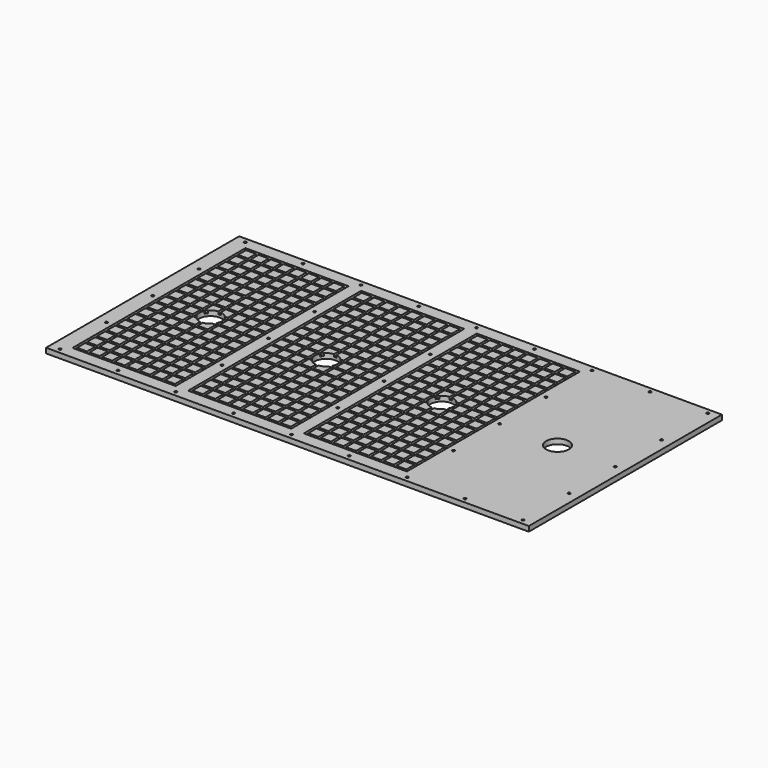
from build123d import *

# Parameters (mm, degrees)
F0_W     = 2438.4
F0_H     = 1219.2
F1_DEPTH = 25.4
F2_R     = 6.35
F2_R_2   = 57.15
F3_DEPTH = 25.4
F4_W     = 520.7
F4_H     = 1092.2
F4_W_2   = 50.8
F4_H_2   = 50.8
F5_DEPTH = 12.7


with BuildPart() as f1:
    # F0 (on Top) → F1 (new body)
    with BuildSketch(Plane.XY):
        with Locations((1219.2, 609.6)):
            Rectangle(F0_W, F0_H)
    extrude(amount=F1_DEPTH)

    # F2 (on face) → F3 (cut, through all)
    with BuildSketch(Plane.XY.offset(25.4)):
        with Locations((50.8, 1193.8)):
            Circle(F2_R)
        with Locations((635, 1193.8)):
            Circle(F2_R)
        with Locations((342.9, 1193.8)):
            Circle(F2_R)
        with Locations((927.1, 1193.8)):
            Circle(F2_R)
        with Locations((1219.2, 1193.8)):
            Circle(F2_R)
        with Locations((1511.3, 1193.8)):
            Circle(F2_R)
        with Locations((1803.4, 1193.8)):
            Circle(F2_R)
        with Locations((2095.5, 1193.8)):
            Circle(F2_R)
        with Locations((2387.6, 1193.8)):
            Circle(F2_R)
        with Locations((1803.4, 901.7)):
            Circle(F2_R)
        with Locations((1219.2, 901.7)):
            Circle(F2_R)
        with Locations((635, 901.7)):
            Circle(F2_R)
        with Locations((2387.6, 901.7)):
            Circle(F2_R)
        with Locations((342.9, 609.6)):
            Circle(F2_R_2)
        with Locations((927.1, 609.6)):
            Circle(F2_R_2)
        with Locations((1511.3, 609.6)):
            Circle(F2_R_2)
        with Locations((2095.5, 609.6)):
            Circle(F2_R_2)
        with Locations((50.8, 901.7)):
            Circle(F2_R)
        with Locations((50.8, 317.5)):
            Circle(F2_R)
        with Locations((50.8, 25.4)):
            Circle(F2_R)
        with Locations((342.9, 25.4)):
            Circle(F2_R)
        with Locations((635, 317.5)):
            Circle(F2_R)
        with Locations((635, 25.4)):
            Circle(F2_R)
        with Locations((927.1, 25.4)):
            Circle(F2_R)
        with Locations((1219.2, 25.4)):
            Circle(F2_R)
        with Locations((1219.2, 317.5)):
            Circle(F2_R)
        with Locations((1511.3, 25.4)):
            Circle(F2_R)
        with Locations((1803.4, 25.4)):
            Circle(F2_R)
        with Locations((1803.4, 317.5)):
            Circle(F2_R)
        with Locations((2095.5, 25.4)):
            Circle(F2_R)
        with Locations((2387.6, 25.4)):
            Circle(F2_R)
        with Locations((2387.6, 317.5)):
            Circle(F2_R)
        with Locations((50.8, 609.6)):
            Circle(F2_R)
        with Locations((635, 609.6)):
            Circle(F2_R)
        with Locations((1219.2, 609.6)):
            Circle(F2_R)
        with Locations((1803.4, 609.6)):
            Circle(F2_R)
        with Locations((2387.6, 609.6)):
            Circle(F2_R)
    extrude(amount=-F3_DEPTH, mode=Mode.SUBTRACT)

    # F4 (on face) → F5 (cut)
    with BuildSketch(Plane.XY.offset(25.4)):
        with Locations((342.9, 609.6)):
            Rectangle(F4_W, F4_H)
        with Locations((120.65, 101.6)):
            Rectangle(F4_W_2, F4_H_2, mode=Mode.SUBTRACT)
        with Locations((184.147673, 101.6)):
            Rectangle(F4_W_2, F4_H_2, mode=Mode.SUBTRACT)
        with Locations((247.645347, 101.6)):
            Rectangle(F4_W_2, F4_H_2, mode=Mode.SUBTRACT)
        with Locations((120.65, 165.1)):
            Rectangle(F4_W_2, F4_H_2, mode=Mode.SUBTRACT)
        with Locations((184.147673, 165.1)):
            Rectangle(F4_W_2, F4_H_2, mode=Mode.SUBTRACT)
        with Locations((247.645347, 165.1)):
            Rectangle(F4_W_2, F4_H_2, mode=Mode.SUBTRACT)
        with Locations((311.14302, 101.6)):
            Rectangle(F4_W_2, F4_H_2, mode=Mode.SUBTRACT)
        with Locations((374.640694, 101.6)):
            Rectangle(F4_W_2, F4_H_2, mode=Mode.SUBTRACT)
        with Locations((438.138367, 101.6)):
            Rectangle(F4_W_2, F4_H_2, mode=Mode.SUBTRACT)
        with Locations((501.636041, 101.6)):
            Rectangle(F4_W_2, F4_H_2, mode=Mode.SUBTRACT)
        with Locations((311.14302, 165.1)):
            Rectangle(F4_W_2, F4_H_2, mode=Mode.SUBTRACT)
        with Locations((374.640694, 165.1)):
            Rectangle(F4_W_2, F4_H_2, mode=Mode.SUBTRACT)
        with Locations((438.138367, 165.1)):
            Rectangle(F4_W_2, F4_H_2, mode=Mode.SUBTRACT)
        with Locations((501.636041, 165.1)):
            Rectangle(F4_W_2, F4_H_2, mode=Mode.SUBTRACT)
        with Locations((120.65, 228.6)):
            Rectangle(F4_W_2, F4_H_2, mode=Mode.SUBTRACT)
        with Locations((184.147673, 228.6)):
            Rectangle(F4_W_2, F4_H_2, mode=Mode.SUBTRACT)
        with Locations((247.645347, 228.6)):
            Rectangle(F4_W_2, F4_H_2, mode=Mode.SUBTRACT)
        with Locations((120.65, 292.1)):
            Rectangle(F4_W_2, F4_H_2, mode=Mode.SUBTRACT)
        with Locations((184.147673, 292.1)):
            Rectangle(F4_W_2, F4_H_2, mode=Mode.SUBTRACT)
        with Locations((247.645347, 292.1)):
            Rectangle(F4_W_2, F4_H_2, mode=Mode.SUBTRACT)
        with Locations((311.14302, 228.6)):
            Rectangle(F4_W_2, F4_H_2, mode=Mode.SUBTRACT)
        with Locations((374.640694, 228.6)):
            Rectangle(F4_W_2, F4_H_2, mode=Mode.SUBTRACT)
        with Locations((438.138367, 228.6)):
            Rectangle(F4_W_2, F4_H_2, mode=Mode.SUBTRACT)
        with Locations((501.636041, 228.6)):
            Rectangle(F4_W_2, F4_H_2, mode=Mode.SUBTRACT)
        with Locations((311.14302, 292.1)):
            Rectangle(F4_W_2, F4_H_2, mode=Mode.SUBTRACT)
        with Locations((374.640694, 292.1)):
            Rectangle(F4_W_2, F4_H_2, mode=Mode.SUBTRACT)
        with Locations((438.138367, 292.1)):
            Rectangle(F4_W_2, F4_H_2, mode=Mode.SUBTRACT)
        with Locations((501.636041, 292.1)):
            Rectangle(F4_W_2, F4_H_2, mode=Mode.SUBTRACT)
        with Locations((565.133714, 101.6)):
            Rectangle(F4_W_2, F4_H_2, mode=Mode.SUBTRACT)
        with Locations((565.133714, 165.1)):
            Rectangle(F4_W_2, F4_H_2, mode=Mode.SUBTRACT)
        with Locations((565.133714, 228.6)):
            Rectangle(F4_W_2, F4_H_2, mode=Mode.SUBTRACT)
        with Locations((565.133714, 292.1)):
            Rectangle(F4_W_2, F4_H_2, mode=Mode.SUBTRACT)
        with Locations((120.65, 355.6)):
            Rectangle(F4_W_2, F4_H_2, mode=Mode.SUBTRACT)
        with Locations((184.147673, 355.6)):
            Rectangle(F4_W_2, F4_H_2, mode=Mode.SUBTRACT)
        with Locations((247.645347, 355.6)):
            Rectangle(F4_W_2, F4_H_2, mode=Mode.SUBTRACT)
        with Locations((120.65, 419.1)):
            Rectangle(F4_W_2, F4_H_2, mode=Mode.SUBTRACT)
        with Locations((184.147673, 419.1)):
            Rectangle(F4_W_2, F4_H_2, mode=Mode.SUBTRACT)
        with Locations((247.645347, 419.1)):
            Rectangle(F4_W_2, F4_H_2, mode=Mode.SUBTRACT)
        with Locations((311.14302, 355.6)):
            Rectangle(F4_W_2, F4_H_2, mode=Mode.SUBTRACT)
        with Locations((374.640694, 355.6)):
            Rectangle(F4_W_2, F4_H_2, mode=Mode.SUBTRACT)
        with Locations((438.138367, 355.6)):
            Rectangle(F4_W_2, F4_H_2, mode=Mode.SUBTRACT)
        with Locations((501.636041, 355.6)):
            Rectangle(F4_W_2, F4_H_2, mode=Mode.SUBTRACT)
        with Locations((311.14302, 419.1)):
            Rectangle(F4_W_2, F4_H_2, mode=Mode.SUBTRACT)
        with Locations((374.640694, 419.1)):
            Rectangle(F4_W_2, F4_H_2, mode=Mode.SUBTRACT)
        with Locations((438.138367, 419.1)):
            Rectangle(F4_W_2, F4_H_2, mode=Mode.SUBTRACT)
        with Locations((501.636041, 419.1)):
            Rectangle(F4_W_2, F4_H_2, mode=Mode.SUBTRACT)
        with Locations((120.65, 482.6)):
            Rectangle(F4_W_2, F4_H_2, mode=Mode.SUBTRACT)
        with Locations((184.147673, 482.6)):
            Rectangle(F4_W_2, F4_H_2, mode=Mode.SUBTRACT)
        with Locations((247.645347, 482.6)):
            Rectangle(F4_W_2, F4_H_2, mode=Mode.SUBTRACT)
        with Locations((120.65, 546.1)):
            Rectangle(F4_W_2, F4_H_2, mode=Mode.SUBTRACT)
        with Locations((184.147673, 546.1)):
            Rectangle(F4_W_2, F4_H_2, mode=Mode.SUBTRACT)
        with Locations((247.645347, 546.1)):
            Rectangle(F4_W_2, F4_H_2, mode=Mode.SUBTRACT)
        with Locations((311.14302, 482.6)):
            Rectangle(F4_W_2, F4_H_2, mode=Mode.SUBTRACT)
        with Locations((374.640694, 482.6)):
            Rectangle(F4_W_2, F4_H_2, mode=Mode.SUBTRACT)
        with Locations((438.138367, 482.6)):
            Rectangle(F4_W_2, F4_H_2, mode=Mode.SUBTRACT)
        with Locations((501.636041, 482.6)):
            Rectangle(F4_W_2, F4_H_2, mode=Mode.SUBTRACT)
        with Locations((311.14302, 546.1)):
            Rectangle(F4_W_2, F4_H_2, mode=Mode.SUBTRACT)
        with Locations((374.640694, 546.1)):
            Rectangle(F4_W_2, F4_H_2, mode=Mode.SUBTRACT)
        with Locations((438.138367, 546.1)):
            Rectangle(F4_W_2, F4_H_2, mode=Mode.SUBTRACT)
        with Locations((501.636041, 546.1)):
            Rectangle(F4_W_2, F4_H_2, mode=Mode.SUBTRACT)
        with Locations((565.133714, 355.6)):
            Rectangle(F4_W_2, F4_H_2, mode=Mode.SUBTRACT)
        with Locations((565.133714, 419.1)):
            Rectangle(F4_W_2, F4_H_2, mode=Mode.SUBTRACT)
        with Locations((565.133714, 482.6)):
            Rectangle(F4_W_2, F4_H_2, mode=Mode.SUBTRACT)
        with Locations((565.133714, 546.1)):
            Rectangle(F4_W_2, F4_H_2, mode=Mode.SUBTRACT)
        with Locations((120.65, 609.6)):
            Rectangle(F4_W_2, F4_H_2, mode=Mode.SUBTRACT)
        with Locations((184.147673, 609.6)):
            Rectangle(F4_W_2, F4_H_2, mode=Mode.SUBTRACT)
        with Locations((120.65, 673.1)):
            Rectangle(F4_W_2, F4_H_2, mode=Mode.SUBTRACT)
        with Locations((184.147673, 673.1)):
            Rectangle(F4_W_2, F4_H_2, mode=Mode.SUBTRACT)
        with Locations((247.645347, 609.6)):
            Rectangle(F4_W_2, F4_H_2, mode=Mode.SUBTRACT)
        with Locations((247.645347, 673.1)):
            Rectangle(F4_W_2, F4_H_2, mode=Mode.SUBTRACT)
        with Locations((120.65, 736.6)):
            Rectangle(F4_W_2, F4_H_2, mode=Mode.SUBTRACT)
        with Locations((184.147673, 736.6)):
            Rectangle(F4_W_2, F4_H_2, mode=Mode.SUBTRACT)
        with Locations((247.645347, 736.6)):
            Rectangle(F4_W_2, F4_H_2, mode=Mode.SUBTRACT)
        with Locations((311.14302, 609.6)):
            Rectangle(F4_W_2, F4_H_2, mode=Mode.SUBTRACT)
        with Locations((374.640694, 609.6)):
            Rectangle(F4_W_2, F4_H_2, mode=Mode.SUBTRACT)
        with Locations((311.14302, 673.1)):
            Rectangle(F4_W_2, F4_H_2, mode=Mode.SUBTRACT)
        with Locations((374.640694, 673.1)):
            Rectangle(F4_W_2, F4_H_2, mode=Mode.SUBTRACT)
        with Locations((438.138367, 609.6)):
            Rectangle(F4_W_2, F4_H_2, mode=Mode.SUBTRACT)
        with Locations((501.636041, 609.6)):
            Rectangle(F4_W_2, F4_H_2, mode=Mode.SUBTRACT)
        with Locations((438.138367, 673.1)):
            Rectangle(F4_W_2, F4_H_2, mode=Mode.SUBTRACT)
        with Locations((501.636041, 673.1)):
            Rectangle(F4_W_2, F4_H_2, mode=Mode.SUBTRACT)
        with Locations((311.14302, 736.6)):
            Rectangle(F4_W_2, F4_H_2, mode=Mode.SUBTRACT)
        with Locations((374.640694, 736.6)):
            Rectangle(F4_W_2, F4_H_2, mode=Mode.SUBTRACT)
        with Locations((438.138367, 736.6)):
            Rectangle(F4_W_2, F4_H_2, mode=Mode.SUBTRACT)
        with Locations((501.636041, 736.6)):
            Rectangle(F4_W_2, F4_H_2, mode=Mode.SUBTRACT)
        with Locations((120.65, 800.1)):
            Rectangle(F4_W_2, F4_H_2, mode=Mode.SUBTRACT)
        with Locations((184.147673, 800.1)):
            Rectangle(F4_W_2, F4_H_2, mode=Mode.SUBTRACT)
        with Locations((247.645347, 800.1)):
            Rectangle(F4_W_2, F4_H_2, mode=Mode.SUBTRACT)
        with Locations((120.65, 863.6)):
            Rectangle(F4_W_2, F4_H_2, mode=Mode.SUBTRACT)
        with Locations((184.147673, 863.6)):
            Rectangle(F4_W_2, F4_H_2, mode=Mode.SUBTRACT)
        with Locations((247.645347, 863.6)):
            Rectangle(F4_W_2, F4_H_2, mode=Mode.SUBTRACT)
        with Locations((311.14302, 800.1)):
            Rectangle(F4_W_2, F4_H_2, mode=Mode.SUBTRACT)
        with Locations((374.640694, 800.1)):
            Rectangle(F4_W_2, F4_H_2, mode=Mode.SUBTRACT)
        with Locations((438.138367, 800.1)):
            Rectangle(F4_W_2, F4_H_2, mode=Mode.SUBTRACT)
        with Locations((501.636041, 800.1)):
            Rectangle(F4_W_2, F4_H_2, mode=Mode.SUBTRACT)
        with Locations((311.14302, 863.6)):
            Rectangle(F4_W_2, F4_H_2, mode=Mode.SUBTRACT)
        with Locations((374.640694, 863.6)):
            Rectangle(F4_W_2, F4_H_2, mode=Mode.SUBTRACT)
        with Locations((438.138367, 863.6)):
            Rectangle(F4_W_2, F4_H_2, mode=Mode.SUBTRACT)
        with Locations((501.636041, 863.6)):
            Rectangle(F4_W_2, F4_H_2, mode=Mode.SUBTRACT)
        with Locations((565.133714, 609.6)):
            Rectangle(F4_W_2, F4_H_2, mode=Mode.SUBTRACT)
        with Locations((565.133714, 673.1)):
            Rectangle(F4_W_2, F4_H_2, mode=Mode.SUBTRACT)
        with Locations((565.133714, 736.6)):
            Rectangle(F4_W_2, F4_H_2, mode=Mode.SUBTRACT)
        with Locations((565.133714, 800.1)):
            Rectangle(F4_W_2, F4_H_2, mode=Mode.SUBTRACT)
        with Locations((565.133714, 863.6)):
            Rectangle(F4_W_2, F4_H_2, mode=Mode.SUBTRACT)
        with Locations((120.65, 927.1)):
            Rectangle(F4_W_2, F4_H_2, mode=Mode.SUBTRACT)
        with Locations((184.147673, 927.1)):
            Rectangle(F4_W_2, F4_H_2, mode=Mode.SUBTRACT)
        with Locations((247.645347, 927.1)):
            Rectangle(F4_W_2, F4_H_2, mode=Mode.SUBTRACT)
        with Locations((120.65, 990.6)):
            Rectangle(F4_W_2, F4_H_2, mode=Mode.SUBTRACT)
        with Locations((184.147673, 990.6)):
            Rectangle(F4_W_2, F4_H_2, mode=Mode.SUBTRACT)
        with Locations((247.645347, 990.6)):
            Rectangle(F4_W_2, F4_H_2, mode=Mode.SUBTRACT)
        with Locations((311.14302, 927.1)):
            Rectangle(F4_W_2, F4_H_2, mode=Mode.SUBTRACT)
        with Locations((374.640694, 927.1)):
            Rectangle(F4_W_2, F4_H_2, mode=Mode.SUBTRACT)
        with Locations((438.138367, 927.1)):
            Rectangle(F4_W_2, F4_H_2, mode=Mode.SUBTRACT)
        with Locations((501.636041, 927.1)):
            Rectangle(F4_W_2, F4_H_2, mode=Mode.SUBTRACT)
        with Locations((311.14302, 990.6)):
            Rectangle(F4_W_2, F4_H_2, mode=Mode.SUBTRACT)
        with Locations((374.640694, 990.6)):
            Rectangle(F4_W_2, F4_H_2, mode=Mode.SUBTRACT)
        with Locations((438.138367, 990.6)):
            Rectangle(F4_W_2, F4_H_2, mode=Mode.SUBTRACT)
        with Locations((501.636041, 990.6)):
            Rectangle(F4_W_2, F4_H_2, mode=Mode.SUBTRACT)
        with Locations((120.65, 1054.1)):
            Rectangle(F4_W_2, F4_H_2, mode=Mode.SUBTRACT)
        with Locations((184.147673, 1054.1)):
            Rectangle(F4_W_2, F4_H_2, mode=Mode.SUBTRACT)
        with Locations((247.645347, 1054.1)):
            Rectangle(F4_W_2, F4_H_2, mode=Mode.SUBTRACT)
        with Locations((120.65, 1117.6)):
            Rectangle(F4_W_2, F4_H_2, mode=Mode.SUBTRACT)
        with Locations((184.147673, 1117.6)):
            Rectangle(F4_W_2, F4_H_2, mode=Mode.SUBTRACT)
        with Locations((247.645347, 1117.6)):
            Rectangle(F4_W_2, F4_H_2, mode=Mode.SUBTRACT)
        with Locations((311.14302, 1054.1)):
            Rectangle(F4_W_2, F4_H_2, mode=Mode.SUBTRACT)
        with Locations((374.640694, 1054.1)):
            Rectangle(F4_W_2, F4_H_2, mode=Mode.SUBTRACT)
        with Locations((438.138367, 1054.1)):
            Rectangle(F4_W_2, F4_H_2, mode=Mode.SUBTRACT)
        with Locations((501.636041, 1054.1)):
            Rectangle(F4_W_2, F4_H_2, mode=Mode.SUBTRACT)
        with Locations((311.14302, 1117.6)):
            Rectangle(F4_W_2, F4_H_2, mode=Mode.SUBTRACT)
        with Locations((374.640694, 1117.6)):
            Rectangle(F4_W_2, F4_H_2, mode=Mode.SUBTRACT)
        with Locations((438.138367, 1117.6)):
            Rectangle(F4_W_2, F4_H_2, mode=Mode.SUBTRACT)
        with Locations((501.636041, 1117.6)):
            Rectangle(F4_W_2, F4_H_2, mode=Mode.SUBTRACT)
        with Locations((565.133714, 927.1)):
            Rectangle(F4_W_2, F4_H_2, mode=Mode.SUBTRACT)
        with Locations((565.133714, 990.6)):
            Rectangle(F4_W_2, F4_H_2, mode=Mode.SUBTRACT)
        with Locations((565.133714, 1054.1)):
            Rectangle(F4_W_2, F4_H_2, mode=Mode.SUBTRACT)
        with Locations((565.133714, 1117.6)):
            Rectangle(F4_W_2, F4_H_2, mode=Mode.SUBTRACT)
        with Locations((927.1, 609.6)):
            Rectangle(F4_W, F4_H)
        with Locations((704.85, 101.6)):
            Rectangle(F4_W_2, F4_H_2, mode=Mode.SUBTRACT)
        with Locations((704.85, 165.1)):
            Rectangle(F4_W_2, F4_H_2, mode=Mode.SUBTRACT)
        with Locations((768.347673, 101.6)):
            Rectangle(F4_W_2, F4_H_2, mode=Mode.SUBTRACT)
        with Locations((831.845347, 101.6)):
            Rectangle(F4_W_2, F4_H_2, mode=Mode.SUBTRACT)
        with Locations((895.34302, 101.6)):
            Rectangle(F4_W_2, F4_H_2, mode=Mode.SUBTRACT)
        with Locations((768.347673, 165.1)):
            Rectangle(F4_W_2, F4_H_2, mode=Mode.SUBTRACT)
        with Locations((831.845347, 165.1)):
            Rectangle(F4_W_2, F4_H_2, mode=Mode.SUBTRACT)
        with Locations((895.34302, 165.1)):
            Rectangle(F4_W_2, F4_H_2, mode=Mode.SUBTRACT)
        with Locations((704.85, 228.6)):
            Rectangle(F4_W_2, F4_H_2, mode=Mode.SUBTRACT)
        with Locations((704.85, 292.1)):
            Rectangle(F4_W_2, F4_H_2, mode=Mode.SUBTRACT)
        with Locations((768.347673, 228.6)):
            Rectangle(F4_W_2, F4_H_2, mode=Mode.SUBTRACT)
        with Locations((831.845347, 228.6)):
            Rectangle(F4_W_2, F4_H_2, mode=Mode.SUBTRACT)
        with Locations((895.34302, 228.6)):
            Rectangle(F4_W_2, F4_H_2, mode=Mode.SUBTRACT)
        with Locations((768.347673, 292.1)):
            Rectangle(F4_W_2, F4_H_2, mode=Mode.SUBTRACT)
        with Locations((831.845347, 292.1)):
            Rectangle(F4_W_2, F4_H_2, mode=Mode.SUBTRACT)
        with Locations((895.34302, 292.1)):
            Rectangle(F4_W_2, F4_H_2, mode=Mode.SUBTRACT)
        with Locations((704.85, 355.6)):
            Rectangle(F4_W_2, F4_H_2, mode=Mode.SUBTRACT)
        with Locations((704.85, 419.1)):
            Rectangle(F4_W_2, F4_H_2, mode=Mode.SUBTRACT)
        with Locations((768.347673, 355.6)):
            Rectangle(F4_W_2, F4_H_2, mode=Mode.SUBTRACT)
        with Locations((831.845347, 355.6)):
            Rectangle(F4_W_2, F4_H_2, mode=Mode.SUBTRACT)
        with Locations((895.34302, 355.6)):
            Rectangle(F4_W_2, F4_H_2, mode=Mode.SUBTRACT)
        with Locations((768.347673, 419.1)):
            Rectangle(F4_W_2, F4_H_2, mode=Mode.SUBTRACT)
        with Locations((831.845347, 419.1)):
            Rectangle(F4_W_2, F4_H_2, mode=Mode.SUBTRACT)
        with Locations((895.34302, 419.1)):
            Rectangle(F4_W_2, F4_H_2, mode=Mode.SUBTRACT)
        with Locations((704.85, 482.6)):
            Rectangle(F4_W_2, F4_H_2, mode=Mode.SUBTRACT)
        with Locations((704.85, 546.1)):
            Rectangle(F4_W_2, F4_H_2, mode=Mode.SUBTRACT)
        with Locations((768.347673, 482.6)):
            Rectangle(F4_W_2, F4_H_2, mode=Mode.SUBTRACT)
        with Locations((831.845347, 482.6)):
            Rectangle(F4_W_2, F4_H_2, mode=Mode.SUBTRACT)
        with Locations((895.34302, 482.6)):
            Rectangle(F4_W_2, F4_H_2, mode=Mode.SUBTRACT)
        with Locations((768.347673, 546.1)):
            Rectangle(F4_W_2, F4_H_2, mode=Mode.SUBTRACT)
        with Locations((831.845347, 546.1)):
            Rectangle(F4_W_2, F4_H_2, mode=Mode.SUBTRACT)
        with Locations((895.34302, 546.1)):
            Rectangle(F4_W_2, F4_H_2, mode=Mode.SUBTRACT)
        with Locations((958.840694, 101.6)):
            Rectangle(F4_W_2, F4_H_2, mode=Mode.SUBTRACT)
        with Locations((1022.338367, 101.6)):
            Rectangle(F4_W_2, F4_H_2, mode=Mode.SUBTRACT)
        with Locations((1085.836041, 101.6)):
            Rectangle(F4_W_2, F4_H_2, mode=Mode.SUBTRACT)
        with Locations((958.840694, 165.1)):
            Rectangle(F4_W_2, F4_H_2, mode=Mode.SUBTRACT)
        with Locations((1022.338367, 165.1)):
            Rectangle(F4_W_2, F4_H_2, mode=Mode.SUBTRACT)
        with Locations((1085.836041, 165.1)):
            Rectangle(F4_W_2, F4_H_2, mode=Mode.SUBTRACT)
        with Locations((1149.333714, 101.6)):
            Rectangle(F4_W_2, F4_H_2, mode=Mode.SUBTRACT)
        with Locations((1149.333714, 165.1)):
            Rectangle(F4_W_2, F4_H_2, mode=Mode.SUBTRACT)
        with Locations((958.840694, 228.6)):
            Rectangle(F4_W_2, F4_H_2, mode=Mode.SUBTRACT)
        with Locations((1022.338367, 228.6)):
            Rectangle(F4_W_2, F4_H_2, mode=Mode.SUBTRACT)
        with Locations((1085.836041, 228.6)):
            Rectangle(F4_W_2, F4_H_2, mode=Mode.SUBTRACT)
        with Locations((958.840694, 292.1)):
            Rectangle(F4_W_2, F4_H_2, mode=Mode.SUBTRACT)
        with Locations((1022.338367, 292.1)):
            Rectangle(F4_W_2, F4_H_2, mode=Mode.SUBTRACT)
        with Locations((1085.836041, 292.1)):
            Rectangle(F4_W_2, F4_H_2, mode=Mode.SUBTRACT)
        with Locations((1149.333714, 228.6)):
            Rectangle(F4_W_2, F4_H_2, mode=Mode.SUBTRACT)
        with Locations((1149.333714, 292.1)):
            Rectangle(F4_W_2, F4_H_2, mode=Mode.SUBTRACT)
        with Locations((958.840694, 355.6)):
            Rectangle(F4_W_2, F4_H_2, mode=Mode.SUBTRACT)
        with Locations((1022.338367, 355.6)):
            Rectangle(F4_W_2, F4_H_2, mode=Mode.SUBTRACT)
        with Locations((1085.836041, 355.6)):
            Rectangle(F4_W_2, F4_H_2, mode=Mode.SUBTRACT)
        with Locations((958.840694, 419.1)):
            Rectangle(F4_W_2, F4_H_2, mode=Mode.SUBTRACT)
        with Locations((1022.338367, 419.1)):
            Rectangle(F4_W_2, F4_H_2, mode=Mode.SUBTRACT)
        with Locations((1085.836041, 419.1)):
            Rectangle(F4_W_2, F4_H_2, mode=Mode.SUBTRACT)
        with Locations((1149.333714, 355.6)):
            Rectangle(F4_W_2, F4_H_2, mode=Mode.SUBTRACT)
        with Locations((1149.333714, 419.1)):
            Rectangle(F4_W_2, F4_H_2, mode=Mode.SUBTRACT)
        with Locations((958.840694, 482.6)):
            Rectangle(F4_W_2, F4_H_2, mode=Mode.SUBTRACT)
        with Locations((1022.338367, 482.6)):
            Rectangle(F4_W_2, F4_H_2, mode=Mode.SUBTRACT)
        with Locations((1085.836041, 482.6)):
            Rectangle(F4_W_2, F4_H_2, mode=Mode.SUBTRACT)
        with Locations((958.840694, 546.1)):
            Rectangle(F4_W_2, F4_H_2, mode=Mode.SUBTRACT)
        with Locations((1022.338367, 546.1)):
            Rectangle(F4_W_2, F4_H_2, mode=Mode.SUBTRACT)
        with Locations((1085.836041, 546.1)):
            Rectangle(F4_W_2, F4_H_2, mode=Mode.SUBTRACT)
        with Locations((1149.333714, 482.6)):
            Rectangle(F4_W_2, F4_H_2, mode=Mode.SUBTRACT)
        with Locations((1149.333714, 546.1)):
            Rectangle(F4_W_2, F4_H_2, mode=Mode.SUBTRACT)
        with Locations((704.85, 609.6)):
            Rectangle(F4_W_2, F4_H_2, mode=Mode.SUBTRACT)
        with Locations((704.85, 673.1)):
            Rectangle(F4_W_2, F4_H_2, mode=Mode.SUBTRACT)
        with Locations((704.85, 736.6)):
            Rectangle(F4_W_2, F4_H_2, mode=Mode.SUBTRACT)
        with Locations((768.347673, 609.6)):
            Rectangle(F4_W_2, F4_H_2, mode=Mode.SUBTRACT)
        with Locations((768.347673, 673.1)):
            Rectangle(F4_W_2, F4_H_2, mode=Mode.SUBTRACT)
        with Locations((831.845347, 609.6)):
            Rectangle(F4_W_2, F4_H_2, mode=Mode.SUBTRACT)
        with Locations((895.34302, 609.6)):
            Rectangle(F4_W_2, F4_H_2, mode=Mode.SUBTRACT)
        with Locations((831.845347, 673.1)):
            Rectangle(F4_W_2, F4_H_2, mode=Mode.SUBTRACT)
        with Locations((895.34302, 673.1)):
            Rectangle(F4_W_2, F4_H_2, mode=Mode.SUBTRACT)
        with Locations((768.347673, 736.6)):
            Rectangle(F4_W_2, F4_H_2, mode=Mode.SUBTRACT)
        with Locations((831.845347, 736.6)):
            Rectangle(F4_W_2, F4_H_2, mode=Mode.SUBTRACT)
        with Locations((895.34302, 736.6)):
            Rectangle(F4_W_2, F4_H_2, mode=Mode.SUBTRACT)
        with Locations((704.85, 800.1)):
            Rectangle(F4_W_2, F4_H_2, mode=Mode.SUBTRACT)
        with Locations((704.85, 863.6)):
            Rectangle(F4_W_2, F4_H_2, mode=Mode.SUBTRACT)
        with Locations((768.347673, 800.1)):
            Rectangle(F4_W_2, F4_H_2, mode=Mode.SUBTRACT)
        with Locations((831.845347, 800.1)):
            Rectangle(F4_W_2, F4_H_2, mode=Mode.SUBTRACT)
        with Locations((895.34302, 800.1)):
            Rectangle(F4_W_2, F4_H_2, mode=Mode.SUBTRACT)
        with Locations((768.347673, 863.6)):
            Rectangle(F4_W_2, F4_H_2, mode=Mode.SUBTRACT)
        with Locations((831.845347, 863.6)):
            Rectangle(F4_W_2, F4_H_2, mode=Mode.SUBTRACT)
        with Locations((895.34302, 863.6)):
            Rectangle(F4_W_2, F4_H_2, mode=Mode.SUBTRACT)
        with Locations((704.85, 927.1)):
            Rectangle(F4_W_2, F4_H_2, mode=Mode.SUBTRACT)
        with Locations((704.85, 990.6)):
            Rectangle(F4_W_2, F4_H_2, mode=Mode.SUBTRACT)
        with Locations((768.347673, 927.1)):
            Rectangle(F4_W_2, F4_H_2, mode=Mode.SUBTRACT)
        with Locations((831.845347, 927.1)):
            Rectangle(F4_W_2, F4_H_2, mode=Mode.SUBTRACT)
        with Locations((895.34302, 927.1)):
            Rectangle(F4_W_2, F4_H_2, mode=Mode.SUBTRACT)
        with Locations((768.347673, 990.6)):
            Rectangle(F4_W_2, F4_H_2, mode=Mode.SUBTRACT)
        with Locations((831.845347, 990.6)):
            Rectangle(F4_W_2, F4_H_2, mode=Mode.SUBTRACT)
        with Locations((895.34302, 990.6)):
            Rectangle(F4_W_2, F4_H_2, mode=Mode.SUBTRACT)
        with Locations((704.85, 1054.1)):
            Rectangle(F4_W_2, F4_H_2, mode=Mode.SUBTRACT)
        with Locations((704.85, 1117.6)):
            Rectangle(F4_W_2, F4_H_2, mode=Mode.SUBTRACT)
        with Locations((768.347673, 1054.1)):
            Rectangle(F4_W_2, F4_H_2, mode=Mode.SUBTRACT)
        with Locations((831.845347, 1054.1)):
            Rectangle(F4_W_2, F4_H_2, mode=Mode.SUBTRACT)
        with Locations((895.34302, 1054.1)):
            Rectangle(F4_W_2, F4_H_2, mode=Mode.SUBTRACT)
        with Locations((768.347673, 1117.6)):
            Rectangle(F4_W_2, F4_H_2, mode=Mode.SUBTRACT)
        with Locations((831.845347, 1117.6)):
            Rectangle(F4_W_2, F4_H_2, mode=Mode.SUBTRACT)
        with Locations((895.34302, 1117.6)):
            Rectangle(F4_W_2, F4_H_2, mode=Mode.SUBTRACT)
        with Locations((958.840694, 609.6)):
            Rectangle(F4_W_2, F4_H_2, mode=Mode.SUBTRACT)
        with Locations((1022.338367, 609.6)):
            Rectangle(F4_W_2, F4_H_2, mode=Mode.SUBTRACT)
        with Locations((958.840694, 673.1)):
            Rectangle(F4_W_2, F4_H_2, mode=Mode.SUBTRACT)
        with Locations((1022.338367, 673.1)):
            Rectangle(F4_W_2, F4_H_2, mode=Mode.SUBTRACT)
        with Locations((1085.836041, 609.6)):
            Rectangle(F4_W_2, F4_H_2, mode=Mode.SUBTRACT)
        with Locations((1085.836041, 673.1)):
            Rectangle(F4_W_2, F4_H_2, mode=Mode.SUBTRACT)
        with Locations((958.840694, 736.6)):
            Rectangle(F4_W_2, F4_H_2, mode=Mode.SUBTRACT)
        with Locations((1022.338367, 736.6)):
            Rectangle(F4_W_2, F4_H_2, mode=Mode.SUBTRACT)
        with Locations((1085.836041, 736.6)):
            Rectangle(F4_W_2, F4_H_2, mode=Mode.SUBTRACT)
        with Locations((1149.333714, 609.6)):
            Rectangle(F4_W_2, F4_H_2, mode=Mode.SUBTRACT)
        with Locations((1149.333714, 673.1)):
            Rectangle(F4_W_2, F4_H_2, mode=Mode.SUBTRACT)
        with Locations((1149.333714, 736.6)):
            Rectangle(F4_W_2, F4_H_2, mode=Mode.SUBTRACT)
        with Locations((958.840694, 800.1)):
            Rectangle(F4_W_2, F4_H_2, mode=Mode.SUBTRACT)
        with Locations((1022.338367, 800.1)):
            Rectangle(F4_W_2, F4_H_2, mode=Mode.SUBTRACT)
        with Locations((1085.836041, 800.1)):
            Rectangle(F4_W_2, F4_H_2, mode=Mode.SUBTRACT)
        with Locations((958.840694, 863.6)):
            Rectangle(F4_W_2, F4_H_2, mode=Mode.SUBTRACT)
        with Locations((1022.338367, 863.6)):
            Rectangle(F4_W_2, F4_H_2, mode=Mode.SUBTRACT)
        with Locations((1085.836041, 863.6)):
            Rectangle(F4_W_2, F4_H_2, mode=Mode.SUBTRACT)
        with Locations((1149.333714, 800.1)):
            Rectangle(F4_W_2, F4_H_2, mode=Mode.SUBTRACT)
        with Locations((1149.333714, 863.6)):
            Rectangle(F4_W_2, F4_H_2, mode=Mode.SUBTRACT)
        with Locations((958.840694, 927.1)):
            Rectangle(F4_W_2, F4_H_2, mode=Mode.SUBTRACT)
        with Locations((1022.338367, 927.1)):
            Rectangle(F4_W_2, F4_H_2, mode=Mode.SUBTRACT)
        with Locations((1085.836041, 927.1)):
            Rectangle(F4_W_2, F4_H_2, mode=Mode.SUBTRACT)
        with Locations((958.840694, 990.6)):
            Rectangle(F4_W_2, F4_H_2, mode=Mode.SUBTRACT)
        with Locations((1022.338367, 990.6)):
            Rectangle(F4_W_2, F4_H_2, mode=Mode.SUBTRACT)
        with Locations((1085.836041, 990.6)):
            Rectangle(F4_W_2, F4_H_2, mode=Mode.SUBTRACT)
        with Locations((1149.333714, 927.1)):
            Rectangle(F4_W_2, F4_H_2, mode=Mode.SUBTRACT)
        with Locations((1149.333714, 990.6)):
            Rectangle(F4_W_2, F4_H_2, mode=Mode.SUBTRACT)
        with Locations((958.840694, 1054.1)):
            Rectangle(F4_W_2, F4_H_2, mode=Mode.SUBTRACT)
        with Locations((1022.338367, 1054.1)):
            Rectangle(F4_W_2, F4_H_2, mode=Mode.SUBTRACT)
        with Locations((1085.836041, 1054.1)):
            Rectangle(F4_W_2, F4_H_2, mode=Mode.SUBTRACT)
        with Locations((958.840694, 1117.6)):
            Rectangle(F4_W_2, F4_H_2, mode=Mode.SUBTRACT)
        with Locations((1022.338367, 1117.6)):
            Rectangle(F4_W_2, F4_H_2, mode=Mode.SUBTRACT)
        with Locations((1085.836041, 1117.6)):
            Rectangle(F4_W_2, F4_H_2, mode=Mode.SUBTRACT)
        with Locations((1149.333714, 1054.1)):
            Rectangle(F4_W_2, F4_H_2, mode=Mode.SUBTRACT)
        with Locations((1149.333714, 1117.6)):
            Rectangle(F4_W_2, F4_H_2, mode=Mode.SUBTRACT)
        with Locations((1511.3, 609.6)):
            Rectangle(F4_W, F4_H)
        with Locations((1289.05, 101.6)):
            Rectangle(F4_W_2, F4_H_2, mode=Mode.SUBTRACT)
        with Locations((1289.05, 165.1)):
            Rectangle(F4_W_2, F4_H_2, mode=Mode.SUBTRACT)
        with Locations((1289.05, 228.6)):
            Rectangle(F4_W_2, F4_H_2, mode=Mode.SUBTRACT)
        with Locations((1289.05, 292.1)):
            Rectangle(F4_W_2, F4_H_2, mode=Mode.SUBTRACT)
        with Locations((1352.547673, 101.6)):
            Rectangle(F4_W_2, F4_H_2, mode=Mode.SUBTRACT)
        with Locations((1416.045347, 101.6)):
            Rectangle(F4_W_2, F4_H_2, mode=Mode.SUBTRACT)
        with Locations((1479.54302, 101.6)):
            Rectangle(F4_W_2, F4_H_2, mode=Mode.SUBTRACT)
        with Locations((1543.040694, 101.6)):
            Rectangle(F4_W_2, F4_H_2, mode=Mode.SUBTRACT)
        with Locations((1352.547673, 165.1)):
            Rectangle(F4_W_2, F4_H_2, mode=Mode.SUBTRACT)
        with Locations((1416.045347, 165.1)):
            Rectangle(F4_W_2, F4_H_2, mode=Mode.SUBTRACT)
        with Locations((1479.54302, 165.1)):
            Rectangle(F4_W_2, F4_H_2, mode=Mode.SUBTRACT)
        with Locations((1543.040694, 165.1)):
            Rectangle(F4_W_2, F4_H_2, mode=Mode.SUBTRACT)
        with Locations((1606.538367, 101.6)):
            Rectangle(F4_W_2, F4_H_2, mode=Mode.SUBTRACT)
        with Locations((1670.036041, 101.6)):
            Rectangle(F4_W_2, F4_H_2, mode=Mode.SUBTRACT)
        with Locations((1733.533714, 101.6)):
            Rectangle(F4_W_2, F4_H_2, mode=Mode.SUBTRACT)
        with Locations((1606.538367, 165.1)):
            Rectangle(F4_W_2, F4_H_2, mode=Mode.SUBTRACT)
        with Locations((1670.036041, 165.1)):
            Rectangle(F4_W_2, F4_H_2, mode=Mode.SUBTRACT)
        with Locations((1733.533714, 165.1)):
            Rectangle(F4_W_2, F4_H_2, mode=Mode.SUBTRACT)
        with Locations((1352.547673, 228.6)):
            Rectangle(F4_W_2, F4_H_2, mode=Mode.SUBTRACT)
        with Locations((1416.045347, 228.6)):
            Rectangle(F4_W_2, F4_H_2, mode=Mode.SUBTRACT)
        with Locations((1479.54302, 228.6)):
            Rectangle(F4_W_2, F4_H_2, mode=Mode.SUBTRACT)
        with Locations((1543.040694, 228.6)):
            Rectangle(F4_W_2, F4_H_2, mode=Mode.SUBTRACT)
        with Locations((1352.547673, 292.1)):
            Rectangle(F4_W_2, F4_H_2, mode=Mode.SUBTRACT)
        with Locations((1416.045347, 292.1)):
            Rectangle(F4_W_2, F4_H_2, mode=Mode.SUBTRACT)
        with Locations((1479.54302, 292.1)):
            Rectangle(F4_W_2, F4_H_2, mode=Mode.SUBTRACT)
        with Locations((1543.040694, 292.1)):
            Rectangle(F4_W_2, F4_H_2, mode=Mode.SUBTRACT)
        with Locations((1606.538367, 228.6)):
            Rectangle(F4_W_2, F4_H_2, mode=Mode.SUBTRACT)
        with Locations((1670.036041, 228.6)):
            Rectangle(F4_W_2, F4_H_2, mode=Mode.SUBTRACT)
        with Locations((1733.533714, 228.6)):
            Rectangle(F4_W_2, F4_H_2, mode=Mode.SUBTRACT)
        with Locations((1606.538367, 292.1)):
            Rectangle(F4_W_2, F4_H_2, mode=Mode.SUBTRACT)
        with Locations((1670.036041, 292.1)):
            Rectangle(F4_W_2, F4_H_2, mode=Mode.SUBTRACT)
        with Locations((1733.533714, 292.1)):
            Rectangle(F4_W_2, F4_H_2, mode=Mode.SUBTRACT)
        with Locations((1289.05, 355.6)):
            Rectangle(F4_W_2, F4_H_2, mode=Mode.SUBTRACT)
        with Locations((1289.05, 419.1)):
            Rectangle(F4_W_2, F4_H_2, mode=Mode.SUBTRACT)
        with Locations((1289.05, 482.6)):
            Rectangle(F4_W_2, F4_H_2, mode=Mode.SUBTRACT)
        with Locations((1289.05, 546.1)):
            Rectangle(F4_W_2, F4_H_2, mode=Mode.SUBTRACT)
        with Locations((1352.547673, 355.6)):
            Rectangle(F4_W_2, F4_H_2, mode=Mode.SUBTRACT)
        with Locations((1416.045347, 355.6)):
            Rectangle(F4_W_2, F4_H_2, mode=Mode.SUBTRACT)
        with Locations((1479.54302, 355.6)):
            Rectangle(F4_W_2, F4_H_2, mode=Mode.SUBTRACT)
        with Locations((1543.040694, 355.6)):
            Rectangle(F4_W_2, F4_H_2, mode=Mode.SUBTRACT)
        with Locations((1352.547673, 419.1)):
            Rectangle(F4_W_2, F4_H_2, mode=Mode.SUBTRACT)
        with Locations((1416.045347, 419.1)):
            Rectangle(F4_W_2, F4_H_2, mode=Mode.SUBTRACT)
        with Locations((1479.54302, 419.1)):
            Rectangle(F4_W_2, F4_H_2, mode=Mode.SUBTRACT)
        with Locations((1543.040694, 419.1)):
            Rectangle(F4_W_2, F4_H_2, mode=Mode.SUBTRACT)
        with Locations((1606.538367, 355.6)):
            Rectangle(F4_W_2, F4_H_2, mode=Mode.SUBTRACT)
        with Locations((1670.036041, 355.6)):
            Rectangle(F4_W_2, F4_H_2, mode=Mode.SUBTRACT)
        with Locations((1733.533714, 355.6)):
            Rectangle(F4_W_2, F4_H_2, mode=Mode.SUBTRACT)
        with Locations((1606.538367, 419.1)):
            Rectangle(F4_W_2, F4_H_2, mode=Mode.SUBTRACT)
        with Locations((1670.036041, 419.1)):
            Rectangle(F4_W_2, F4_H_2, mode=Mode.SUBTRACT)
        with Locations((1733.533714, 419.1)):
            Rectangle(F4_W_2, F4_H_2, mode=Mode.SUBTRACT)
        with Locations((1352.547673, 482.6)):
            Rectangle(F4_W_2, F4_H_2, mode=Mode.SUBTRACT)
        with Locations((1416.045347, 482.6)):
            Rectangle(F4_W_2, F4_H_2, mode=Mode.SUBTRACT)
        with Locations((1479.54302, 482.6)):
            Rectangle(F4_W_2, F4_H_2, mode=Mode.SUBTRACT)
        with Locations((1543.040694, 482.6)):
            Rectangle(F4_W_2, F4_H_2, mode=Mode.SUBTRACT)
        with Locations((1352.547673, 546.1)):
            Rectangle(F4_W_2, F4_H_2, mode=Mode.SUBTRACT)
        with Locations((1416.045347, 546.1)):
            Rectangle(F4_W_2, F4_H_2, mode=Mode.SUBTRACT)
        with Locations((1479.54302, 546.1)):
            Rectangle(F4_W_2, F4_H_2, mode=Mode.SUBTRACT)
        with Locations((1543.040694, 546.1)):
            Rectangle(F4_W_2, F4_H_2, mode=Mode.SUBTRACT)
        with Locations((1606.538367, 482.6)):
            Rectangle(F4_W_2, F4_H_2, mode=Mode.SUBTRACT)
        with Locations((1670.036041, 482.6)):
            Rectangle(F4_W_2, F4_H_2, mode=Mode.SUBTRACT)
        with Locations((1733.533714, 482.6)):
            Rectangle(F4_W_2, F4_H_2, mode=Mode.SUBTRACT)
        with Locations((1606.538367, 546.1)):
            Rectangle(F4_W_2, F4_H_2, mode=Mode.SUBTRACT)
        with Locations((1670.036041, 546.1)):
            Rectangle(F4_W_2, F4_H_2, mode=Mode.SUBTRACT)
        with Locations((1733.533714, 546.1)):
            Rectangle(F4_W_2, F4_H_2, mode=Mode.SUBTRACT)
        with Locations((1289.05, 609.6)):
            Rectangle(F4_W_2, F4_H_2, mode=Mode.SUBTRACT)
        with Locations((1289.05, 673.1)):
            Rectangle(F4_W_2, F4_H_2, mode=Mode.SUBTRACT)
        with Locations((1289.05, 736.6)):
            Rectangle(F4_W_2, F4_H_2, mode=Mode.SUBTRACT)
        with Locations((1289.05, 800.1)):
            Rectangle(F4_W_2, F4_H_2, mode=Mode.SUBTRACT)
        with Locations((1289.05, 863.6)):
            Rectangle(F4_W_2, F4_H_2, mode=Mode.SUBTRACT)
        with Locations((1352.547673, 609.6)):
            Rectangle(F4_W_2, F4_H_2, mode=Mode.SUBTRACT)
        with Locations((1416.045347, 609.6)):
            Rectangle(F4_W_2, F4_H_2, mode=Mode.SUBTRACT)
        with Locations((1352.547673, 673.1)):
            Rectangle(F4_W_2, F4_H_2, mode=Mode.SUBTRACT)
        with Locations((1416.045347, 673.1)):
            Rectangle(F4_W_2, F4_H_2, mode=Mode.SUBTRACT)
        with Locations((1479.54302, 609.6)):
            Rectangle(F4_W_2, F4_H_2, mode=Mode.SUBTRACT)
        with Locations((1543.040694, 609.6)):
            Rectangle(F4_W_2, F4_H_2, mode=Mode.SUBTRACT)
        with Locations((1479.54302, 673.1)):
            Rectangle(F4_W_2, F4_H_2, mode=Mode.SUBTRACT)
        with Locations((1543.040694, 673.1)):
            Rectangle(F4_W_2, F4_H_2, mode=Mode.SUBTRACT)
        with Locations((1352.547673, 736.6)):
            Rectangle(F4_W_2, F4_H_2, mode=Mode.SUBTRACT)
        with Locations((1416.045347, 736.6)):
            Rectangle(F4_W_2, F4_H_2, mode=Mode.SUBTRACT)
        with Locations((1479.54302, 736.6)):
            Rectangle(F4_W_2, F4_H_2, mode=Mode.SUBTRACT)
        with Locations((1543.040694, 736.6)):
            Rectangle(F4_W_2, F4_H_2, mode=Mode.SUBTRACT)
        with Locations((1606.538367, 609.6)):
            Rectangle(F4_W_2, F4_H_2, mode=Mode.SUBTRACT)
        with Locations((1606.538367, 673.1)):
            Rectangle(F4_W_2, F4_H_2, mode=Mode.SUBTRACT)
        with Locations((1670.036041, 609.6)):
            Rectangle(F4_W_2, F4_H_2, mode=Mode.SUBTRACT)
        with Locations((1733.533714, 609.6)):
            Rectangle(F4_W_2, F4_H_2, mode=Mode.SUBTRACT)
        with Locations((1670.036041, 673.1)):
            Rectangle(F4_W_2, F4_H_2, mode=Mode.SUBTRACT)
        with Locations((1733.533714, 673.1)):
            Rectangle(F4_W_2, F4_H_2, mode=Mode.SUBTRACT)
        with Locations((1606.538367, 736.6)):
            Rectangle(F4_W_2, F4_H_2, mode=Mode.SUBTRACT)
        with Locations((1670.036041, 736.6)):
            Rectangle(F4_W_2, F4_H_2, mode=Mode.SUBTRACT)
        with Locations((1733.533714, 736.6)):
            Rectangle(F4_W_2, F4_H_2, mode=Mode.SUBTRACT)
        with Locations((1352.547673, 800.1)):
            Rectangle(F4_W_2, F4_H_2, mode=Mode.SUBTRACT)
        with Locations((1416.045347, 800.1)):
            Rectangle(F4_W_2, F4_H_2, mode=Mode.SUBTRACT)
        with Locations((1479.54302, 800.1)):
            Rectangle(F4_W_2, F4_H_2, mode=Mode.SUBTRACT)
        with Locations((1543.040694, 800.1)):
            Rectangle(F4_W_2, F4_H_2, mode=Mode.SUBTRACT)
        with Locations((1352.547673, 863.6)):
            Rectangle(F4_W_2, F4_H_2, mode=Mode.SUBTRACT)
        with Locations((1416.045347, 863.6)):
            Rectangle(F4_W_2, F4_H_2, mode=Mode.SUBTRACT)
        with Locations((1479.54302, 863.6)):
            Rectangle(F4_W_2, F4_H_2, mode=Mode.SUBTRACT)
        with Locations((1543.040694, 863.6)):
            Rectangle(F4_W_2, F4_H_2, mode=Mode.SUBTRACT)
        with Locations((1606.538367, 800.1)):
            Rectangle(F4_W_2, F4_H_2, mode=Mode.SUBTRACT)
        with Locations((1670.036041, 800.1)):
            Rectangle(F4_W_2, F4_H_2, mode=Mode.SUBTRACT)
        with Locations((1733.533714, 800.1)):
            Rectangle(F4_W_2, F4_H_2, mode=Mode.SUBTRACT)
        with Locations((1606.538367, 863.6)):
            Rectangle(F4_W_2, F4_H_2, mode=Mode.SUBTRACT)
        with Locations((1670.036041, 863.6)):
            Rectangle(F4_W_2, F4_H_2, mode=Mode.SUBTRACT)
        with Locations((1733.533714, 863.6)):
            Rectangle(F4_W_2, F4_H_2, mode=Mode.SUBTRACT)
        with Locations((1289.05, 927.1)):
            Rectangle(F4_W_2, F4_H_2, mode=Mode.SUBTRACT)
        with Locations((1289.05, 990.6)):
            Rectangle(F4_W_2, F4_H_2, mode=Mode.SUBTRACT)
        with Locations((1289.05, 1054.1)):
            Rectangle(F4_W_2, F4_H_2, mode=Mode.SUBTRACT)
        with Locations((1289.05, 1117.6)):
            Rectangle(F4_W_2, F4_H_2, mode=Mode.SUBTRACT)
        with Locations((1352.547673, 927.1)):
            Rectangle(F4_W_2, F4_H_2, mode=Mode.SUBTRACT)
        with Locations((1416.045347, 927.1)):
            Rectangle(F4_W_2, F4_H_2, mode=Mode.SUBTRACT)
        with Locations((1479.54302, 927.1)):
            Rectangle(F4_W_2, F4_H_2, mode=Mode.SUBTRACT)
        with Locations((1543.040694, 927.1)):
            Rectangle(F4_W_2, F4_H_2, mode=Mode.SUBTRACT)
        with Locations((1352.547673, 990.6)):
            Rectangle(F4_W_2, F4_H_2, mode=Mode.SUBTRACT)
        with Locations((1416.045347, 990.6)):
            Rectangle(F4_W_2, F4_H_2, mode=Mode.SUBTRACT)
        with Locations((1479.54302, 990.6)):
            Rectangle(F4_W_2, F4_H_2, mode=Mode.SUBTRACT)
        with Locations((1543.040694, 990.6)):
            Rectangle(F4_W_2, F4_H_2, mode=Mode.SUBTRACT)
        with Locations((1606.538367, 927.1)):
            Rectangle(F4_W_2, F4_H_2, mode=Mode.SUBTRACT)
        with Locations((1670.036041, 927.1)):
            Rectangle(F4_W_2, F4_H_2, mode=Mode.SUBTRACT)
        with Locations((1733.533714, 927.1)):
            Rectangle(F4_W_2, F4_H_2, mode=Mode.SUBTRACT)
        with Locations((1606.538367, 990.6)):
            Rectangle(F4_W_2, F4_H_2, mode=Mode.SUBTRACT)
        with Locations((1670.036041, 990.6)):
            Rectangle(F4_W_2, F4_H_2, mode=Mode.SUBTRACT)
        with Locations((1733.533714, 990.6)):
            Rectangle(F4_W_2, F4_H_2, mode=Mode.SUBTRACT)
        with Locations((1352.547673, 1054.1)):
            Rectangle(F4_W_2, F4_H_2, mode=Mode.SUBTRACT)
        with Locations((1416.045347, 1054.1)):
            Rectangle(F4_W_2, F4_H_2, mode=Mode.SUBTRACT)
        with Locations((1479.54302, 1054.1)):
            Rectangle(F4_W_2, F4_H_2, mode=Mode.SUBTRACT)
        with Locations((1543.040694, 1054.1)):
            Rectangle(F4_W_2, F4_H_2, mode=Mode.SUBTRACT)
        with Locations((1352.547673, 1117.6)):
            Rectangle(F4_W_2, F4_H_2, mode=Mode.SUBTRACT)
        with Locations((1416.045347, 1117.6)):
            Rectangle(F4_W_2, F4_H_2, mode=Mode.SUBTRACT)
        with Locations((1479.54302, 1117.6)):
            Rectangle(F4_W_2, F4_H_2, mode=Mode.SUBTRACT)
        with Locations((1543.040694, 1117.6)):
            Rectangle(F4_W_2, F4_H_2, mode=Mode.SUBTRACT)
        with Locations((1606.538367, 1054.1)):
            Rectangle(F4_W_2, F4_H_2, mode=Mode.SUBTRACT)
        with Locations((1670.036041, 1054.1)):
            Rectangle(F4_W_2, F4_H_2, mode=Mode.SUBTRACT)
        with Locations((1733.533714, 1054.1)):
            Rectangle(F4_W_2, F4_H_2, mode=Mode.SUBTRACT)
        with Locations((1606.538367, 1117.6)):
            Rectangle(F4_W_2, F4_H_2, mode=Mode.SUBTRACT)
        with Locations((1670.036041, 1117.6)):
            Rectangle(F4_W_2, F4_H_2, mode=Mode.SUBTRACT)
        with Locations((1733.533714, 1117.6)):
            Rectangle(F4_W_2, F4_H_2, mode=Mode.SUBTRACT)
    extrude(amount=-F5_DEPTH, mode=Mode.SUBTRACT)


solid = f1.part
